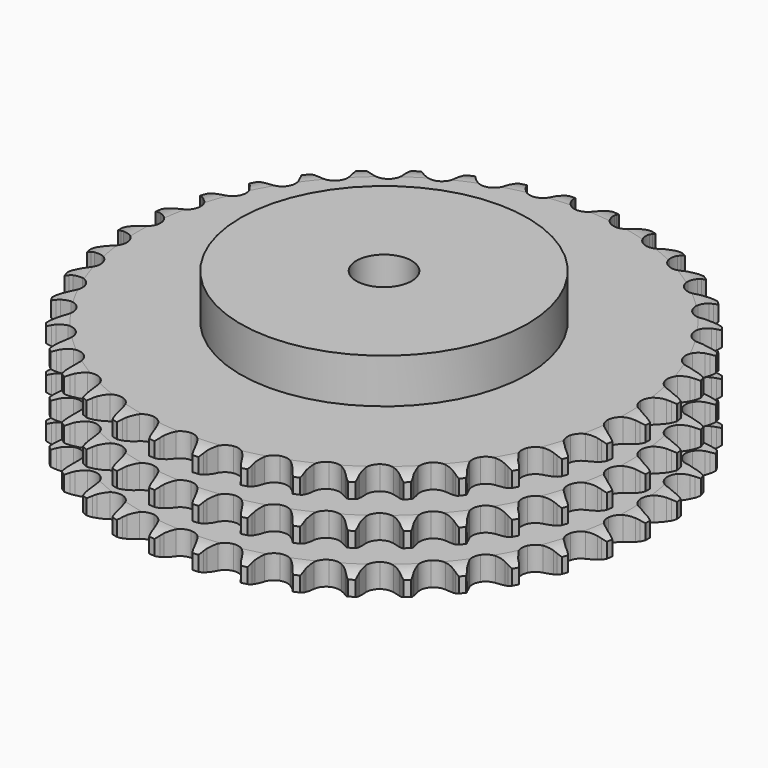
from build123d import *

# Parameters (mm, degrees)
PAD_DEPTH         = 49.8
SKETCH001_R       = 65
PAD001_DEPTH      = 70
SKETCH002_R       = 12.5
POCKET_DEPTH      = 0.001
POCKET_DEPTH_BACK = 70.001


with BuildPart() as part:
    # Sprocket → Pad (new body)
    with BuildSketch(Plane.XY):
        with BuildLine():
            ThreePointArc((-10.025052, 120.984389), (-8.623373, 119.280905), (-7.638429, 117.306964))
            Line((-7.638429, 117.306964), (-7.049797, 115.69432))
            ThreePointArc((-7.049797, 115.69432), (-6.119505, 113.622801), (-4.901153, 111.706488))
            ThreePointArc((-4.901153, 111.706488), (-2.743319, 109.891625), (0, 109.240337))
            ThreePointArc((0, 109.240337), (2.743319, 109.891625), (4.901153, 111.706488))
            ThreePointArc((4.901153, 111.706488), (6.119505, 113.622801), (7.049797, 115.69432))
            Line((7.049797, 115.69432), (7.638429, 117.306964))
            ThreePointArc((7.638429, 117.306964), (8.623373, 119.280905), (10.025052, 120.984389))
            ThreePointArc((10.025052, 120.984389), (11.127231, 119.07343), (11.773841, 116.964294))
            Line((11.773841, 116.964294), (12.089013, 115.276759))
            ThreePointArc((12.089013, 115.276759), (12.665656, 113.080371), (13.551976, 110.989661))
            ThreePointArc((13.551976, 110.989661), (15.381663, 108.844382), (17.980369, 107.750441))
            ThreePointArc((17.980369, 107.750441), (20.793471, 107.941311), (23.220591, 109.376254))
            Line((23.220591, 109.376254), (25.996306, 112.956042))
            ThreePointArc((25.996306, 112.956042), (26.398969, 113.714453), (26.842342, 114.449806))
            ThreePointArc((26.842342, 114.449806), (28.138753, 116.234709), (29.801699, 117.68425))
            ThreePointArc((29.801699, 117.68425), (30.574312, 115.617942), (30.864951, 113.431143))
            Line((30.864951, 113.431143), (30.898065, 111.714748))
            ThreePointArc((30.898065, 111.714748), (31.10533, 109.453404), (31.635443, 107.245324))
            ThreePointArc((31.635443, 107.245324), (33.087074, 104.828148), (35.47028, 103.321394))
            ThreePointArc((35.47028, 103.321394), (38.276431, 103.046639), (40.906632, 104.062521))
            Line((40.906632, 104.062521), (44.233704, 107.136618))
            ThreePointArc((44.233704, 107.136618), (44.755705, 107.818408), (45.314067, 108.470755))
            ThreePointArc((45.314067, 108.470755), (46.886581, 110.017932), (48.765434, 111.173992))
            ThreePointArc((48.765434, 111.173992), (49.187406, 109.008697), (49.114146, 106.803886))
            Line((49.114146, 106.803886), (48.864299, 105.10545))
            ThreePointArc((48.864299, 105.10545), (48.696532, 102.840833), (48.855977, 100.575615))
            ThreePointArc((48.855977, 100.575615), (49.889955, 97.952475), (51.992654, 96.074009))
            ThreePointArc((51.992654, 96.074009), (54.715309, 95.341124), (57.476847, 95.910234))
            Line((57.476847, 95.910234), (61.264521, 98.394786))
            ThreePointArc((61.264521, 98.394786), (61.891622, 98.981359), (62.549741, 99.532905))
            ThreePointArc((62.549741, 99.532905), (64.355466, 100.800154), (66.398975, 101.631197))
            ThreePointArc((66.398975, 101.631197), (66.458796, 99.42598), (66.023635, 97.263297))
            Line((66.023635, 97.263297), (65.497642, 95.629149))
            ThreePointArc((65.497642, 95.629149), (64.95942, 93.423033), (64.743847, 91.162465))
            ThreePointArc((64.743847, 91.162465), (65.331969, 88.404914), (67.096804, 86.205975))
            ThreePointArc((67.096804, 86.205975), (69.661697, 85.034951), (72.479243, 85.141765))
            Line((72.479243, 85.141765), (76.624202, 86.969))
            ThreePointArc((76.624202, 86.969), (77.339297, 87.444356), (78.079222, 87.880057))
            ThreePointArc((78.079222, 87.880057), (80.068901, 88.832809), (82.221324, 89.316168))
            ThreePointArc((82.221324, 89.316168), (81.917363, 87.131181), (81.132171, 85.06962))
            Line((81.132171, 85.06962), (80.34438, 83.544335))
            ThreePointArc((80.34438, 83.544335), (79.450383, 81.456895), (78.865674, 79.262641))
            ThreePointArc((78.865674, 79.262641), (78.991897, 76.445898), (80.370728, 73.986467))
            ThreePointArc((80.370728, 73.986467), (82.707895, 72.409247), (85.504595, 72.050851))
            Line((85.504595, 72.050851), (89.893775, 73.170927))
            ThreePointArc((89.893775, 73.170927), (90.677358, 73.522099), (91.478905, 73.83007))
            ThreePointArc((91.478905, 73.83007), (93.598266, 74.442338), (95.800891, 74.564826))
            ThreePointArc((95.800891, 74.564826), (95.141438, 72.45967), (94.027633, 70.555464))
            Line((94.027633, 70.555464), (92.999533, 69.180649))
            ThreePointArc((92.999533, 69.180649), (91.774148, 67.268826), (90.836251, 65.200739))
            ThreePointArc((90.836251, 65.200739), (90.497131, 62.401637), (91.452348, 59.748801))
            ThreePointArc((91.452348, 59.748801), (93.498038, 57.808407), (96.197604, 56.994577))
            Line((96.197604, 56.994577), (100.71128, 57.376942))
            ThreePointArc((100.71128, 57.376942), (101.541977, 57.594351), (102.383282, 57.766191))
            ThreePointArc((102.383282, 57.766191), (104.574513, 58.021273), (106.767258, 57.779551))
            ThreePointArc((106.767258, 57.779551), (105.770302, 55.811649), (104.358266, 54.11674))
            Line((104.358266, 54.11674), (103.117902, 52.929895))
            ThreePointArc((103.117902, 52.929895), (101.594553, 51.245839), (100.329052, 49.36033))
            ThreePointArc((100.329052, 49.36033), (99.53384, 46.655221), (100.039387, 43.881344))
            ThreePointArc((100.039387, 43.881344), (101.737798, 41.630704), (104.266593, 40.383641))
            Line((104.266593, 40.383641), (108.781644, 40.017863))
            ThreePointArc((108.781644, 40.017863), (109.636795, 40.095579), (110.49491, 40.126601))
            ThreePointArc((110.49491, 40.126601), (112.698241, 40.017539), (114.821294, 39.4182))
            ThreePointArc((114.821294, 39.4182), (113.514029, 37.641231), (111.842278, 36.201852))
            Line((111.842278, 36.201852), (110.423482, 35.235351))
            ThreePointArc((110.423482, 35.235351), (108.643724, 33.824998), (107.085138, 32.1735))
            ThreePointArc((107.085138, 32.1735), (105.855525, 29.636173), (105.897612, 26.816917))
            ThreePointArc((105.897612, 26.816917), (107.202415, 24.317425), (109.491461, 22.671143))
            Line((109.491461, 22.671143), (113.884728, 21.567202))
            ThreePointArc((113.884728, 21.567202), (114.741008, 21.503104), (115.592525, 21.392462))
            ThreePointArc((115.592525, 21.392462), (117.747854, 20.922231), (119.743303, 19.981623))
            ThreePointArc((119.743303, 19.981623), (118.161388, 18.444059), (116.275525, 17.299472))
            Line((116.275525, 17.299472), (114.716998, 16.579679))
            ThreePointArc((114.716998, 16.579679), (112.729377, 15.4815), (110.92022, 14.109061))
            ThreePointArc((110.92022, 14.109061), (109.289748, 11.808728), (108.867226, 9.020996))
            ThreePointArc((108.867226, 9.020996), (109.742831, 6.340829), (111.729688, 4.340236))
            Line((111.729688, 4.340236), (115.881333, 2.528243))
            ThreePointArc((115.881333, 2.528243), (116.715384, 2.32408), (117.537077, 2.074792))
            ThreePointArc((117.537077, 2.074792), (119.585613, 1.25622), (121.399028, 0))
            ThreePointArc((121.399028, 0), (119.585613, -1.25622), (117.537077, -2.074792))
            Line((117.537077, -2.074792), (115.881333, -2.528243))
            ThreePointArc((115.881333, -2.528243), (113.740066, -3.284293), (111.729688, -4.340236))
            ThreePointArc((111.729688, -4.340236), (109.742831, -6.340829), (108.867226, -9.020996))
            ThreePointArc((108.867226, -9.020996), (109.289748, -11.808728), (110.92022, -14.109061))
            Line((110.92022, -14.109061), (114.716998, -16.579679))
            ThreePointArc((114.716998, -16.579679), (115.50607, -16.918338), (116.275525, -17.299472))
            ThreePointArc((116.275525, -17.299472), (118.161388, -18.444059), (119.743303, -19.981623))
            ThreePointArc((119.743303, -19.981623), (117.747854, -20.922231), (115.592525, -21.392462))
            Line((115.592525, -21.392462), (113.884728, -21.567202))
            ThreePointArc((113.884728, -21.567202), (111.648223, -21.960499), (109.491461, -22.671143))
            ThreePointArc((109.491461, -22.671143), (107.202415, -24.317425), (105.897612, -26.816917))
            ThreePointArc((105.897612, -26.816917), (105.855525, -29.636173), (107.085138, -32.1735))
            Line((107.085138, -32.1735), (110.423482, -35.235351))
            ThreePointArc((110.423482, -35.235351), (111.146051, -35.699268), (111.842278, -36.201852))
            ThreePointArc((111.842278, -36.201852), (113.514029, -37.641231), (114.821294, -39.4182))
            ThreePointArc((114.821294, -39.4182), (112.698241, -40.017539), (110.49491, -40.126601))
            Line((110.49491, -40.126601), (108.781644, -40.017863))
            ThreePointArc((108.781644, -40.017863), (106.510907, -40.03768), (104.266593, -40.383641))
            ThreePointArc((104.266593, -40.383641), (101.737798, -41.630704), (100.039387, -43.881344))
            ThreePointArc((100.039387, -43.881344), (99.53384, -46.655221), (100.329052, -49.36033))
            Line((100.329052, -49.36033), (103.117902, -52.929895))
            ThreePointArc((103.117902, -52.929895), (103.754257, -53.506415), (104.358266, -54.11674))
            ThreePointArc((104.358266, -54.11674), (105.770302, -55.811649), (106.767258, -57.779551))
            ThreePointArc((106.767258, -57.779551), (104.574513, -58.021273), (102.383282, -57.766191))
            Line((102.383282, -57.766191), (100.71128, -57.376942))
            ThreePointArc((100.71128, -57.376942), (98.468252, -57.022737), (96.197604, -56.994577))
            ThreePointArc((96.197604, -56.994577), (93.498038, -57.808407), (91.452348, -59.748801))
            ThreePointArc((91.452348, -59.748801), (90.497131, -62.401637), (90.836251, -65.200739))
            Line((90.836251, -65.200739), (92.999533, -69.180649))
            ThreePointArc((92.999533, -69.180649), (93.532318, -69.854047), (94.027633, -70.555464))
            ThreePointArc((94.027633, -70.555464), (95.141438, -72.45967), (95.800891, -74.564826))
            ThreePointArc((95.800891, -74.564826), (93.598266, -74.442338), (91.478905, -73.83007))
            Line((91.478905, -73.83007), (89.893775, -73.170927))
            ThreePointArc((89.893775, -73.170927), (87.739639, -72.452363), (85.504595, -72.050851))
            ThreePointArc((85.504595, -72.050851), (82.707895, -72.409247), (80.370728, -73.986467))
            ThreePointArc((80.370728, -73.986467), (78.991897, -76.445898), (78.865674, -79.262641))
            Line((78.865674, -79.262641), (80.34438, -83.544335))
            ThreePointArc((80.34438, -83.544335), (80.75906, -84.296242), (81.132171, -85.06962))
            ThreePointArc((81.132171, -85.06962), (81.917363, -87.131181), (82.221324, -89.316168))
            ThreePointArc((82.221324, -89.316168), (80.068901, -88.832809), (78.079222, -87.880057))
            Line((78.079222, -87.880057), (76.624202, -86.969))
            ThreePointArc((76.624202, -86.969), (74.617718, -85.905677), (72.479243, -85.141765))
            ThreePointArc((72.479243, -85.141765), (69.661697, -85.034951), (67.096804, -86.205975))
            ThreePointArc((67.096804, -86.205975), (65.331969, -88.404914), (64.743847, -91.162465))
            Line((64.743847, -91.162465), (65.497642, -95.629149))
            ThreePointArc((65.497642, -95.629149), (65.782907, -96.439056), (66.023635, -97.263297))
            ThreePointArc((66.023635, -97.263297), (66.458796, -99.42598), (66.398975, -101.631197))
            ThreePointArc((66.398975, -101.631197), (64.355466, -100.800154), (62.549741, -99.532905))
            Line((62.549741, -99.532905), (61.264521, -98.394786))
            ThreePointArc((61.264521, -98.394786), (59.46042, -97.015708), (57.476847, -95.910234))
            ThreePointArc((57.476847, -95.910234), (54.715309, -95.341124), (51.992654, -96.074009))
            ThreePointArc((51.992654, -96.074009), (49.889955, -97.952475), (48.855977, -100.575615))
            Line((48.855977, -100.575615), (48.864299, -105.10545))
            ThreePointArc((48.864299, -105.10545), (49.012367, -105.951263), (49.114146, -106.803886))
            ThreePointArc((49.114146, -106.803886), (49.187406, -109.008697), (48.765434, -111.173992))
            ThreePointArc((48.765434, -111.173992), (46.886581, -110.017932), (45.314067, -108.470755))
            Line((45.314067, -108.470755), (44.233704, -107.136618))
            ThreePointArc((44.233704, -107.136618), (42.681196, -105.479404), (40.906632, -104.062521))
            ThreePointArc((40.906632, -104.062521), (38.276431, -103.046639), (35.47028, -103.321394))
            ThreePointArc((35.47028, -103.321394), (33.087074, -104.828148), (31.635443, -107.245324))
            Line((31.635443, -107.245324), (30.898065, -111.714748))
            ThreePointArc((30.898065, -111.714748), (30.904897, -112.573397), (30.864951, -113.431143))
            ThreePointArc((30.864951, -113.431143), (30.574312, -115.617942), (29.801699, -117.68425))
            ThreePointArc((29.801699, -117.68425), (28.138753, -116.234709), (26.842342, -114.449806))
            Line((26.842342, -114.449806), (25.996306, -112.956042))
            ThreePointArc((25.996306, -112.956042), (24.737741, -111.065897), (23.220591, -109.376254))
            ThreePointArc((23.220591, -109.376254), (20.793471, -107.941311), (17.980369, -107.750441))
            ThreePointArc((17.980369, -107.750441), (15.381663, -108.844382), (13.551976, -110.989661))
            Line((13.551976, -110.989661), (12.089013, -115.276759))
            ThreePointArc((12.089013, -115.276759), (11.954423, -116.124821), (11.773841, -116.964294))
            ThreePointArc((11.773841, -116.964294), (11.127231, -119.07343), (10.025052, -120.984389))
            ThreePointArc((10.025052, -120.984389), (8.623373, -119.280905), (7.638429, -117.306964))
            Line((7.638429, -117.306964), (7.049797, -115.69432))
            ThreePointArc((7.049797, -115.69432), (6.119505, -113.622801), (4.901153, -111.706488))
            ThreePointArc((4.901153, -111.706488), (2.743319, -109.891625), (0, -109.240337))
            ThreePointArc((0, -109.240337), (-2.743319, -109.891625), (-4.901153, -111.706488))
            Line((-4.901153, -111.706488), (-7.049797, -115.69432))
            ThreePointArc((-7.049797, -115.69432), (-7.322138, -116.508663), (-7.638429, -117.306964))
            ThreePointArc((-7.638429, -117.306964), (-8.623373, -119.280905), (-10.025052, -120.984389))
            ThreePointArc((-10.025052, -120.984389), (-11.127231, -119.07343), (-11.773841, -116.964294))
            Line((-11.773841, -116.964294), (-12.089013, -115.276759))
            ThreePointArc((-12.089013, -115.276759), (-12.665656, -113.080371), (-13.551976, -110.989661))
            ThreePointArc((-13.551976, -110.989661), (-15.381663, -108.844382), (-17.980369, -107.750441))
            ThreePointArc((-17.980369, -107.750441), (-20.793471, -107.941311), (-23.220591, -109.376254))
            Line((-23.220591, -109.376254), (-25.996306, -112.956042))
            ThreePointArc((-25.996306, -112.956042), (-26.398969, -113.714453), (-26.842342, -114.449806))
            ThreePointArc((-26.842342, -114.449806), (-28.138753, -116.234709), (-29.801699, -117.68425))
            ThreePointArc((-29.801699, -117.68425), (-30.574312, -115.617942), (-30.864951, -113.431143))
            Line((-30.864951, -113.431143), (-30.898065, -111.714748))
            ThreePointArc((-30.898065, -111.714748), (-31.10533, -109.453404), (-31.635443, -107.245324))
            ThreePointArc((-31.635443, -107.245324), (-33.087074, -104.828148), (-35.47028, -103.321394))
            ThreePointArc((-35.47028, -103.321394), (-38.276431, -103.046639), (-40.906632, -104.062521))
            Line((-40.906632, -104.062521), (-44.233704, -107.136618))
            ThreePointArc((-44.233704, -107.136618), (-44.755705, -107.818408), (-45.314067, -108.470755))
            ThreePointArc((-45.314067, -108.470755), (-46.886581, -110.017932), (-48.765434, -111.173992))
            ThreePointArc((-48.765434, -111.173992), (-49.187406, -109.008697), (-49.114146, -106.803886))
            Line((-49.114146, -106.803886), (-48.864299, -105.10545))
            ThreePointArc((-48.864299, -105.10545), (-48.696532, -102.840833), (-48.855977, -100.575615))
            ThreePointArc((-48.855977, -100.575615), (-49.889955, -97.952475), (-51.992654, -96.074009))
            ThreePointArc((-51.992654, -96.074009), (-54.715309, -95.341124), (-57.476847, -95.910234))
            Line((-57.476847, -95.910234), (-61.264521, -98.394786))
            ThreePointArc((-61.264521, -98.394786), (-61.891622, -98.981359), (-62.549741, -99.532905))
            ThreePointArc((-62.549741, -99.532905), (-64.355466, -100.800154), (-66.398975, -101.631197))
            ThreePointArc((-66.398975, -101.631197), (-66.458796, -99.42598), (-66.023635, -97.263297))
            Line((-66.023635, -97.263297), (-65.497642, -95.629149))
            ThreePointArc((-65.497642, -95.629149), (-64.95942, -93.423033), (-64.743847, -91.162465))
            ThreePointArc((-64.743847, -91.162465), (-65.331969, -88.404914), (-67.096804, -86.205975))
            ThreePointArc((-67.096804, -86.205975), (-69.661697, -85.034951), (-72.479243, -85.141765))
            Line((-72.479243, -85.141765), (-76.624202, -86.969))
            ThreePointArc((-76.624202, -86.969), (-77.339297, -87.444356), (-78.079222, -87.880057))
            ThreePointArc((-78.079222, -87.880057), (-80.068901, -88.832809), (-82.221324, -89.316168))
            ThreePointArc((-82.221324, -89.316168), (-81.917363, -87.131181), (-81.132171, -85.06962))
            Line((-81.132171, -85.06962), (-80.34438, -83.544335))
            ThreePointArc((-80.34438, -83.544335), (-79.450383, -81.456895), (-78.865674, -79.262641))
            ThreePointArc((-78.865674, -79.262641), (-78.991897, -76.445898), (-80.370728, -73.986467))
            ThreePointArc((-80.370728, -73.986467), (-82.707895, -72.409247), (-85.504595, -72.050851))
            Line((-85.504595, -72.050851), (-89.893775, -73.170927))
            ThreePointArc((-89.893775, -73.170927), (-90.677358, -73.522099), (-91.478905, -73.83007))
            ThreePointArc((-91.478905, -73.83007), (-93.598266, -74.442338), (-95.800891, -74.564826))
            ThreePointArc((-95.800891, -74.564826), (-95.141438, -72.45967), (-94.027633, -70.555464))
            Line((-94.027633, -70.555464), (-92.999533, -69.180649))
            ThreePointArc((-92.999533, -69.180649), (-91.774148, -67.268826), (-90.836251, -65.200739))
            ThreePointArc((-90.836251, -65.200739), (-90.497131, -62.401637), (-91.452348, -59.748801))
            ThreePointArc((-91.452348, -59.748801), (-93.498038, -57.808407), (-96.197604, -56.994577))
            Line((-96.197604, -56.994577), (-100.71128, -57.376942))
            ThreePointArc((-100.71128, -57.376942), (-101.541977, -57.594351), (-102.383282, -57.766191))
            ThreePointArc((-102.383282, -57.766191), (-104.574513, -58.021273), (-106.767258, -57.779551))
            ThreePointArc((-106.767258, -57.779551), (-105.770302, -55.811649), (-104.358266, -54.11674))
            Line((-104.358266, -54.11674), (-103.117902, -52.929895))
            ThreePointArc((-103.117902, -52.929895), (-101.594553, -51.245839), (-100.329052, -49.36033))
            ThreePointArc((-100.329052, -49.36033), (-99.53384, -46.655221), (-100.039387, -43.881344))
            ThreePointArc((-100.039387, -43.881344), (-101.737798, -41.630704), (-104.266593, -40.383641))
            Line((-104.266593, -40.383641), (-108.781644, -40.017863))
            ThreePointArc((-108.781644, -40.017863), (-109.636795, -40.095579), (-110.49491, -40.126601))
            ThreePointArc((-110.49491, -40.126601), (-112.698241, -40.017539), (-114.821294, -39.4182))
            ThreePointArc((-114.821294, -39.4182), (-113.514029, -37.641231), (-111.842278, -36.201852))
            Line((-111.842278, -36.201852), (-110.423482, -35.235351))
            ThreePointArc((-110.423482, -35.235351), (-108.643724, -33.824998), (-107.085138, -32.1735))
            ThreePointArc((-107.085138, -32.1735), (-105.855525, -29.636173), (-105.897612, -26.816917))
            ThreePointArc((-105.897612, -26.816917), (-107.202415, -24.317425), (-109.491461, -22.671143))
            Line((-109.491461, -22.671143), (-113.884728, -21.567202))
            ThreePointArc((-113.884728, -21.567202), (-114.741008, -21.503104), (-115.592525, -21.392462))
            ThreePointArc((-115.592525, -21.392462), (-117.747854, -20.922231), (-119.743303, -19.981623))
            ThreePointArc((-119.743303, -19.981623), (-118.161388, -18.444059), (-116.275525, -17.299472))
            Line((-116.275525, -17.299472), (-114.716998, -16.579679))
            ThreePointArc((-114.716998, -16.579679), (-112.729377, -15.4815), (-110.92022, -14.109061))
            ThreePointArc((-110.92022, -14.109061), (-109.289748, -11.808728), (-108.867226, -9.020996))
            ThreePointArc((-108.867226, -9.020996), (-109.742831, -6.340829), (-111.729688, -4.340236))
            Line((-111.729688, -4.340236), (-115.881333, -2.528243))
            ThreePointArc((-115.881333, -2.528243), (-116.715384, -2.32408), (-117.537077, -2.074792))
            ThreePointArc((-117.537077, -2.074792), (-119.585613, -1.25622), (-121.399028, 0))
            ThreePointArc((-121.399028, 0), (-119.585613, 1.25622), (-117.537077, 2.074792))
            Line((-117.537077, 2.074792), (-115.881333, 2.528243))
            ThreePointArc((-115.881333, 2.528243), (-113.740066, 3.284293), (-111.729688, 4.340236))
            ThreePointArc((-111.729688, 4.340236), (-109.742831, 6.340829), (-108.867226, 9.020996))
            ThreePointArc((-108.867226, 9.020996), (-109.289748, 11.808728), (-110.92022, 14.109061))
            Line((-110.92022, 14.109061), (-114.716998, 16.579679))
            ThreePointArc((-114.716998, 16.579679), (-115.50607, 16.918338), (-116.275525, 17.299472))
            ThreePointArc((-116.275525, 17.299472), (-118.161388, 18.444059), (-119.743303, 19.981623))
            ThreePointArc((-119.743303, 19.981623), (-117.747854, 20.922231), (-115.592525, 21.392462))
            Line((-115.592525, 21.392462), (-113.884728, 21.567202))
            ThreePointArc((-113.884728, 21.567202), (-111.648223, 21.960499), (-109.491461, 22.671143))
            ThreePointArc((-109.491461, 22.671143), (-107.202415, 24.317425), (-105.897612, 26.816917))
            ThreePointArc((-105.897612, 26.816917), (-105.855525, 29.636173), (-107.085138, 32.1735))
            Line((-107.085138, 32.1735), (-110.423482, 35.235351))
            ThreePointArc((-110.423482, 35.235351), (-111.146051, 35.699268), (-111.842278, 36.201852))
            ThreePointArc((-111.842278, 36.201852), (-113.514029, 37.641231), (-114.821294, 39.4182))
            ThreePointArc((-114.821294, 39.4182), (-112.698241, 40.017539), (-110.49491, 40.126601))
            Line((-110.49491, 40.126601), (-108.781644, 40.017863))
            ThreePointArc((-108.781644, 40.017863), (-106.510907, 40.03768), (-104.266593, 40.383641))
            ThreePointArc((-104.266593, 40.383641), (-101.737798, 41.630704), (-100.039387, 43.881344))
            ThreePointArc((-100.039387, 43.881344), (-99.53384, 46.655221), (-100.329052, 49.36033))
            Line((-100.329052, 49.36033), (-103.117902, 52.929895))
            ThreePointArc((-103.117902, 52.929895), (-103.754257, 53.506415), (-104.358266, 54.11674))
            ThreePointArc((-104.358266, 54.11674), (-105.770302, 55.811649), (-106.767258, 57.779551))
            ThreePointArc((-106.767258, 57.779551), (-104.574513, 58.021273), (-102.383282, 57.766191))
            Line((-102.383282, 57.766191), (-100.71128, 57.376942))
            ThreePointArc((-100.71128, 57.376942), (-98.468252, 57.022737), (-96.197604, 56.994577))
            ThreePointArc((-96.197604, 56.994577), (-93.498038, 57.808407), (-91.452348, 59.748801))
            ThreePointArc((-91.452348, 59.748801), (-90.497131, 62.401637), (-90.836251, 65.200739))
            Line((-90.836251, 65.200739), (-92.999533, 69.180649))
            ThreePointArc((-92.999533, 69.180649), (-93.532318, 69.854047), (-94.027633, 70.555464))
            ThreePointArc((-94.027633, 70.555464), (-95.141438, 72.45967), (-95.800891, 74.564826))
            ThreePointArc((-95.800891, 74.564826), (-93.598266, 74.442338), (-91.478905, 73.83007))
            Line((-91.478905, 73.83007), (-89.893775, 73.170927))
            ThreePointArc((-89.893775, 73.170927), (-87.739639, 72.452363), (-85.504595, 72.050851))
            ThreePointArc((-85.504595, 72.050851), (-82.707895, 72.409247), (-80.370728, 73.986467))
            ThreePointArc((-80.370728, 73.986467), (-78.991897, 76.445898), (-78.865674, 79.262641))
            Line((-78.865674, 79.262641), (-80.34438, 83.544335))
            ThreePointArc((-80.34438, 83.544335), (-80.75906, 84.296242), (-81.132171, 85.06962))
            ThreePointArc((-81.132171, 85.06962), (-81.917363, 87.131181), (-82.221324, 89.316168))
            ThreePointArc((-82.221324, 89.316168), (-80.068901, 88.832809), (-78.079222, 87.880057))
            Line((-78.079222, 87.880057), (-76.624202, 86.969))
            ThreePointArc((-76.624202, 86.969), (-74.617718, 85.905677), (-72.479243, 85.141765))
            ThreePointArc((-72.479243, 85.141765), (-69.661697, 85.034951), (-67.096804, 86.205975))
            ThreePointArc((-67.096804, 86.205975), (-65.331969, 88.404914), (-64.743847, 91.162465))
            Line((-64.743847, 91.162465), (-65.497642, 95.629149))
            ThreePointArc((-65.497642, 95.629149), (-65.782907, 96.439056), (-66.023635, 97.263297))
            ThreePointArc((-66.023635, 97.263297), (-66.458796, 99.42598), (-66.398975, 101.631197))
            ThreePointArc((-66.398975, 101.631197), (-64.355466, 100.800154), (-62.549741, 99.532905))
            Line((-62.549741, 99.532905), (-61.264521, 98.394786))
            ThreePointArc((-61.264521, 98.394786), (-59.46042, 97.015708), (-57.476847, 95.910234))
            ThreePointArc((-57.476847, 95.910234), (-54.715309, 95.341124), (-51.992654, 96.074009))
            ThreePointArc((-51.992654, 96.074009), (-49.889955, 97.952475), (-48.855977, 100.575615))
            Line((-48.855977, 100.575615), (-48.864299, 105.10545))
            ThreePointArc((-48.864299, 105.10545), (-49.012367, 105.951263), (-49.114146, 106.803886))
            ThreePointArc((-49.114146, 106.803886), (-49.187406, 109.008697), (-48.765434, 111.173992))
            ThreePointArc((-48.765434, 111.173992), (-46.886581, 110.017932), (-45.314067, 108.470755))
            Line((-45.314067, 108.470755), (-44.233704, 107.136618))
            ThreePointArc((-44.233704, 107.136618), (-42.681196, 105.479404), (-40.906632, 104.062521))
            ThreePointArc((-40.906632, 104.062521), (-38.276431, 103.046639), (-35.47028, 103.321394))
            ThreePointArc((-35.47028, 103.321394), (-33.087074, 104.828148), (-31.635443, 107.245324))
            Line((-31.635443, 107.245324), (-30.898065, 111.714748))
            ThreePointArc((-30.898065, 111.714748), (-30.904897, 112.573397), (-30.864951, 113.431143))
            ThreePointArc((-30.864951, 113.431143), (-30.574312, 115.617942), (-29.801699, 117.68425))
            ThreePointArc((-29.801699, 117.68425), (-28.138753, 116.234709), (-26.842342, 114.449806))
            Line((-26.842342, 114.449806), (-25.996306, 112.956042))
            ThreePointArc((-25.996306, 112.956042), (-24.737741, 111.065897), (-23.220591, 109.376254))
            ThreePointArc((-23.220591, 109.376254), (-20.793471, 107.941311), (-17.980369, 107.750441))
            ThreePointArc((-17.980369, 107.750441), (-15.381663, 108.844382), (-13.551976, 110.989661))
            Line((-13.551976, 110.989661), (-12.089013, 115.276759))
            ThreePointArc((-12.089013, 115.276759), (-11.954423, 116.124821), (-11.773841, 116.964294))
            ThreePointArc((-11.773841, 116.964294), (-11.127231, 119.07343), (-10.025052, 120.984389))
        make_face()
    extrude(amount=PAD_DEPTH)

    # Sketch → Groove (revolve, cut)
    with BuildSketch(Plane.XZ):
        with BuildLine():
            ThreePointArc((111.014719, 0), (115.373618, 0.506758), (119.5, 2))
            Line((119.5, 2), (119.5, 8.8))
            ThreePointArc((119.5, 8.8), (115.373618, 10.293242), (111.014719, 10.8))
            Line((65, 10.8), (111.014719, 10.8))
            Line((65, 10.8), (65, 19.5))
            Line((65, 19.5), (111.014719, 19.5))
            ThreePointArc((111.014719, 19.5), (115.373618, 20.006758), (119.5, 21.5))
            Line((119.5, 28.3), (119.5, 21.5))
            ThreePointArc((119.5, 28.3), (115.373618, 29.793242), (111.014719, 30.3))
            Line((65, 30.3), (111.014719, 30.3))
            Line((65, 39), (65, 30.3))
            Line((111.014719, 39), (65, 39))
            ThreePointArc((111.014719, 39), (115.373618, 39.506758), (119.5, 41))
            Line((119.5, 41), (119.5, 47.8))
            ThreePointArc((119.5, 47.8), (115.373618, 49.293242), (111.014719, 49.8))
            Line((111.014719, 49.8), (129.5, 49.8))
            Line((129.5, 49.8), (129.5, 0))
            Line((111.014719, 0), (129.5, 0))
        make_face()
    revolve(axis=Axis((0, 0, 0), (0, 0, 1)), mode=Mode.SUBTRACT)

    # Sketch001 → Pad001 (join)
    with BuildSketch(Plane.XY):
        Circle(SKETCH001_R)
    extrude(amount=PAD001_DEPTH)

    # Sketch002 → Pocket (cut, two sides)
    with BuildSketch(Plane.XY) as pocket_sk:
        Circle(SKETCH002_R)
    extrude(amount=-POCKET_DEPTH, mode=Mode.SUBTRACT)
    extrude(pocket_sk.sketch, amount=POCKET_DEPTH_BACK, mode=Mode.SUBTRACT)


solid = part.part
